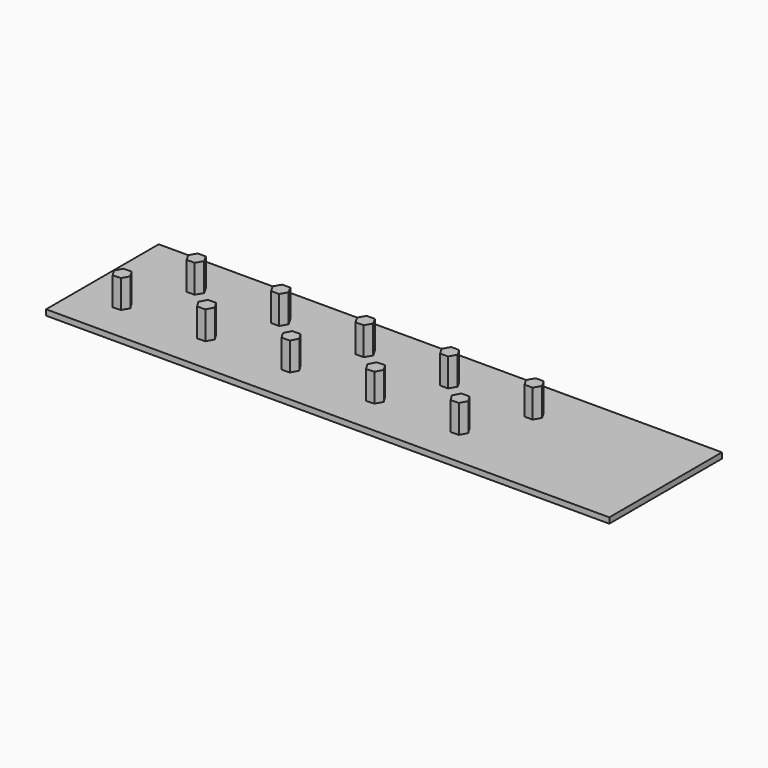
from build123d import *

# Parameters (mm, degrees)
F0_W     = 508
F0_H     = 127
F1_DEPTH = 5.08
F3_DEPTH = 25.4


with BuildPart() as f1:
    # F0 (on Top) → F1 (new body)
    with BuildSketch(Plane.XY):
        with Locations((254, 63.5)):
            Rectangle(F0_W, F0_H)
    extrude(amount=F1_DEPTH)

    # F2 (on face) → F3 (join)
    with BuildSketch(Plane.XY.offset(5.08)):
        Polygon((45.356168, 38.303634), (41.551732, 44.485843), (34.295564, 44.282209), (30.843832, 37.896366), (34.648268, 31.714157), (41.904436, 31.917791), align=None)
        Polygon((67.903701, 82.609158), (71.54074, 88.891306), (67.91876, 95.182149), (60.65974, 95.190842), (57.022701, 88.908694), (60.644682, 82.617851), align=None)
        Polygon((144.11876, 95.182149), (136.85974, 95.190842), (133.222701, 88.908694), (136.844682, 82.617851), (144.103701, 82.609158), (147.74074, 88.891306), align=None)
        Polygon((110.848268, 31.714157), (118.104436, 31.917791), (121.556168, 38.303634), (117.751732, 44.485843), (110.495564, 44.282209), (107.043832, 37.896366), align=None)
        Polygon((220.31876, 95.182149), (213.05974, 95.190842), (209.422701, 88.908694), (213.044682, 82.617851), (220.303701, 82.609158), (223.94074, 88.891306), align=None)
        Polygon((187.048268, 31.714157), (194.304436, 31.917791), (197.756168, 38.303634), (193.951732, 44.485843), (186.695564, 44.282209), (183.243832, 37.896366), align=None)
        Polygon((296.51876, 95.182149), (289.25974, 95.190842), (285.622701, 88.908694), (289.244682, 82.617851), (296.503701, 82.609158), (300.14074, 88.891306), align=None)
        Polygon((263.248268, 31.714157), (270.504436, 31.917791), (273.956168, 38.303634), (270.151732, 44.485843), (262.895564, 44.282209), (259.443832, 37.896366), align=None)
        Polygon((372.71876, 95.182149), (365.45974, 95.190842), (361.822701, 88.908694), (365.444682, 82.617851), (372.703701, 82.609158), (376.34074, 88.891306), align=None)
        Polygon((339.448268, 31.714157), (346.704436, 31.917791), (350.156168, 38.303634), (346.351732, 44.485843), (339.095564, 44.282209), (335.643832, 37.896366), align=None)
    extrude(amount=F3_DEPTH)


solid = f1.part
